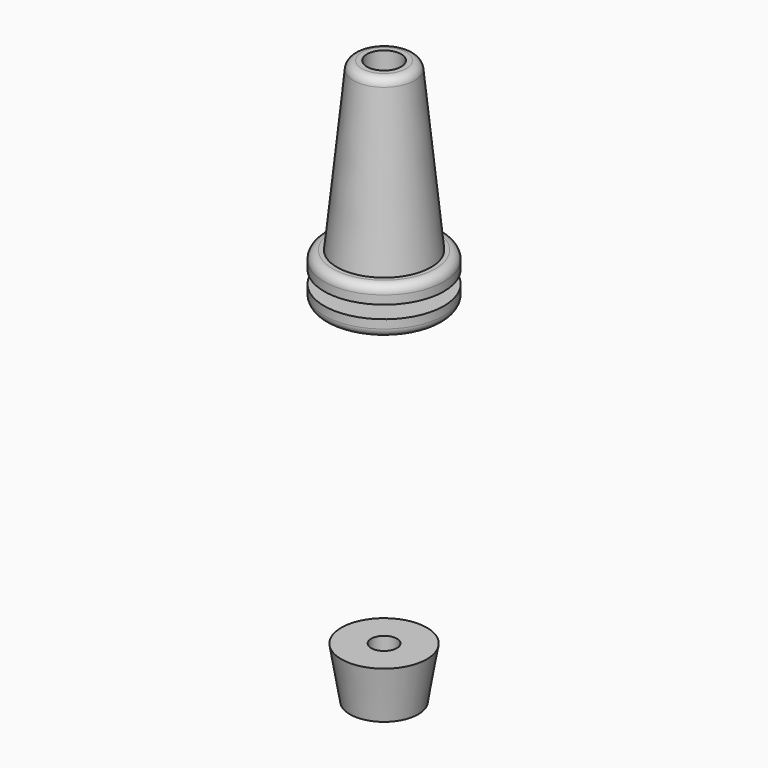
from build123d import *

# Parameters (mm, degrees)
F2_R = 1


with BuildPart() as f1:
    # F0 (on Front) → F1 (revolve)
    with BuildSketch(Plane.XZ):
        Polygon((3.5, 70.672132), (2, 70.672132), (2, 45.672132), (7, 45.672132), (7, 47.672132), (4, 47.672132), (4, 49.172132), (7, 49.172132), (7, 51.172132), (5.5, 51.172132), align=None)
    revolve(axis=Axis((0, 0, 56.739053), (0, 0, 1)))

    # F2
    f2_edges = [f1.edges().sort_by_distance(p)[0] for p in [
        (-7, 0, 51.172132),
        (-7, 0, 45.672132),
        (-3.5, 0, 70.672132),
    ]]
    fillet(f2_edges, radius=F2_R)


with BuildPart() as f4:
    # F3 (on Front) → F4 (revolve)
    with BuildSketch(Plane.XZ):
        Polygon((5, 10.661472), (1.5, 10.661472), (1.5, 6.687009), (2.5, 6.687009), (2.5, 4.661472), (4, 4.661472), align=None)
    revolve(axis=Axis((0, 0, 10.389713), (0, 0, 1)))


solid = Compound([f1.part, f4.part])
